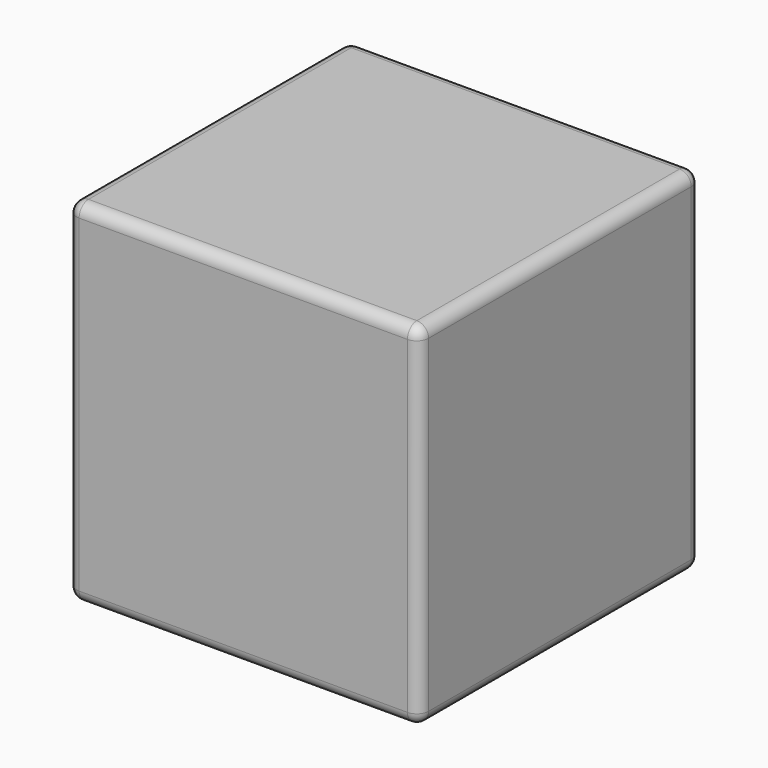
from build123d import *

# Parameters (mm, degrees)
SKETCH_W  = 3
SKETCH_H  = 3
PAD_DEPTH = 3
FILLET_R  = 0.1


with BuildPart() as part:
    # Sketch → Pad (new body)
    with BuildSketch(Plane.XY):
        Rectangle(SKETCH_W, SKETCH_H)
    extrude(amount=PAD_DEPTH)

    # Fillet
    fillet_edges = [part.edges().sort_by_distance(p)[0] for p in [
        (1.5, -1.5, 1.5),
        (1.5, 1.5, 1.5),
        (1.5, 0, 0),
        (1.5, 0, 3),
        (-1.5, 0, 3),
        (0, -1.5, 3),
        (0, 1.5, 3),
        (-1.5, -1.5, 1.5),
        (0, -1.5, 0),
        (-1.5, 1.5, 1.5),
        (0, 1.5, 0),
        (-1.5, 0, 0),
    ]]
    fillet(fillet_edges, radius=FILLET_R)


solid = part.part
